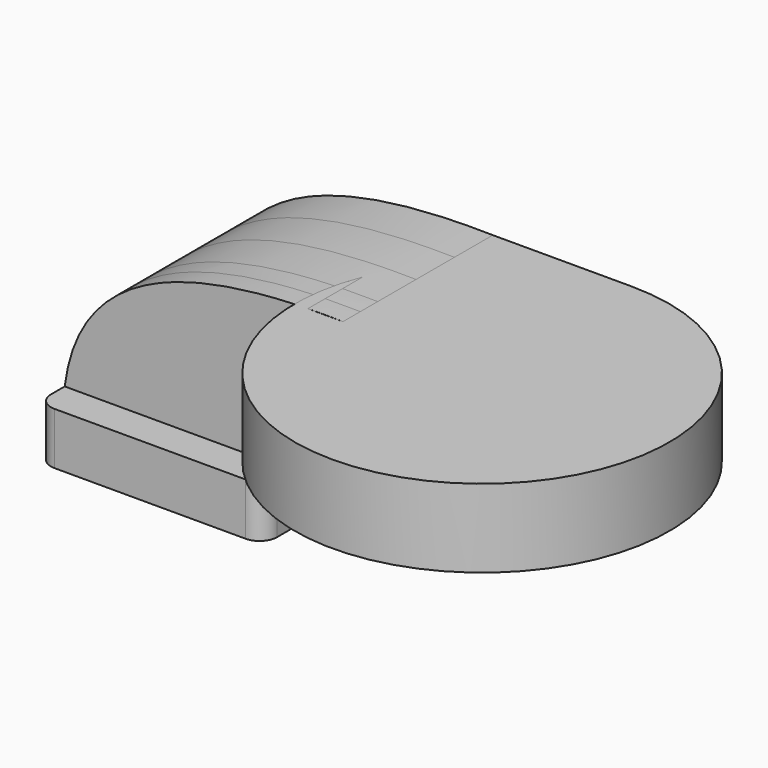
from build123d import *

# Parameters (mm, degrees)
F1_DEPTH  = 63.5
F0_W      = 25.4
F0_H      = 5.545384808
F0_H_2    = 19.05
F0_H_3    = 3.979615192
F2_DEPTH  = 17.526
F3_DEPTH  = 25.4
F4_DEPTH  = 7.9375
F4_FACE_W = 68.3895
F4_FACE_H = 28.575
F6_R      = 6.35


with BuildPart() as f1:
    # F0 (on Front) → F1 (new body, symmetric)
    with BuildSketch(Plane.XZ):
        Polygon((-41.275, -9.525), (41.275, -9.525), (41.275, 9.525), (22.225, 9.525), (-41.275, 9.525), align=None)
    extrude(amount=F1_DEPTH, both=True)

    # F0 (on Front) → F2 (join, symmetric)
    with BuildSketch(Plane.XZ):
        Polygon((-41.275, -9.525), (41.275, -9.525), (41.275, 9.525), (22.225, 9.525), (-41.275, 9.525), align=None)
        with BuildLine():
            Line((22.225, 9.525), (41.275, 9.525))
            Line((41.275, 9.525), (41.275, 28.8728918047))
            ThreePointArc((41.275, 28.8728918047), (44.1836383767, 35.8949660218), (51.2057125939, 38.8036043985))
            Line((51.2057125939, 38.8036043985), (60.325, 38.8036043985))
            Line((60.325, 38.8036043985), (60.325, 57.8536043985))
            Line((60.325, 57.8536043985), (51.2057125939, 57.8536043985))
            ThreePointArc((51.2057125939, 57.8536043985), (30.7132541951, 49.3653502034), (22.225, 28.8728918047))
            Line((22.225, 28.8728918047), (22.225, 9.525))
        make_face()
        with BuildLine():
            add(Edge.make_bspline(
                [(-41.275, 9.525), (-35.7294939458, 54.0499053895), (8.4615461528, 64.4009560347), (60.325, 63.3989892066)],
                knots=[0, 0, 0, 0, 114.9998552739, 114.9998552739, 114.9998552739, 114.9998552739], degree=3))
            Line((-41.275, 9.525), (22.225, 9.525))
            Line((22.225, 9.525), (22.225, 28.8728918047))
            ThreePointArc((22.225, 28.8728918047), (30.7132541951, 49.3653502034), (51.2057125939, 57.8536043985))
            Line((51.2057125939, 57.8536043985), (60.325, 57.8536043985))
            Line((60.325, 57.8536043985), (60.325, 63.3989892066))
        make_face()
        with Locations((73.025, 60.6262968025)):
            Rectangle(F0_W, F0_H)
        Polygon((111.125, 63.3989892066), (85.725, 63.3989892066), (85.725, 57.8536043985), (85.725, 38.8036043985), (85.725, 34.8239892066), (111.125, 34.8239892066), align=None)
        with Locations((73.025, 48.3286043985)):
            Rectangle(F0_W, F0_H_2)
        with Locations((73.025, 36.8137968025)):
            Rectangle(F0_W, F0_H_3)
    extrude(amount=F2_DEPTH, both=True)

    # F3 (add, symmetric): a face of the model
    f3_faces = [f1.faces().sort_by_distance(p)[0] for p in [
        (31.3502124895, -17.526, 38.5126856462),
    ]]
    extrude(f3_faces, amount=F3_DEPTH, both=True)

    # F4 (add, symmetric): a face of the model
    f4_faces = [f1.faces().sort_by_distance(p)[0] for p in [
        (31.3502124895, -42.926, 38.5126856462),
    ]]
    extrude(f4_faces, amount=F4_DEPTH, both=True)

    # F4_face (on face) → F5 (revolve)
    with BuildSketch(Plane(origin=(111.125, -16.66875, 49.1114892066), x_dir=(0, 1, 0), z_dir=(1, 0, 0))):
        Rectangle(F4_FACE_W, F4_FACE_H)
    revolve(axis=Axis((111.125, -50.8635, 49.1114892066), (0, 0, 1)))

    # F6
    f6_edges = [f1.edges().sort_by_distance(p)[0] for p in [
        (-41.275, -63.5, 0),
        (41.275, -63.5, 0),
        (41.275, 63.5, 0),
        (-41.275, 63.5, 0),
    ]]
    fillet(f6_edges, radius=F6_R)


solid = f1.part
